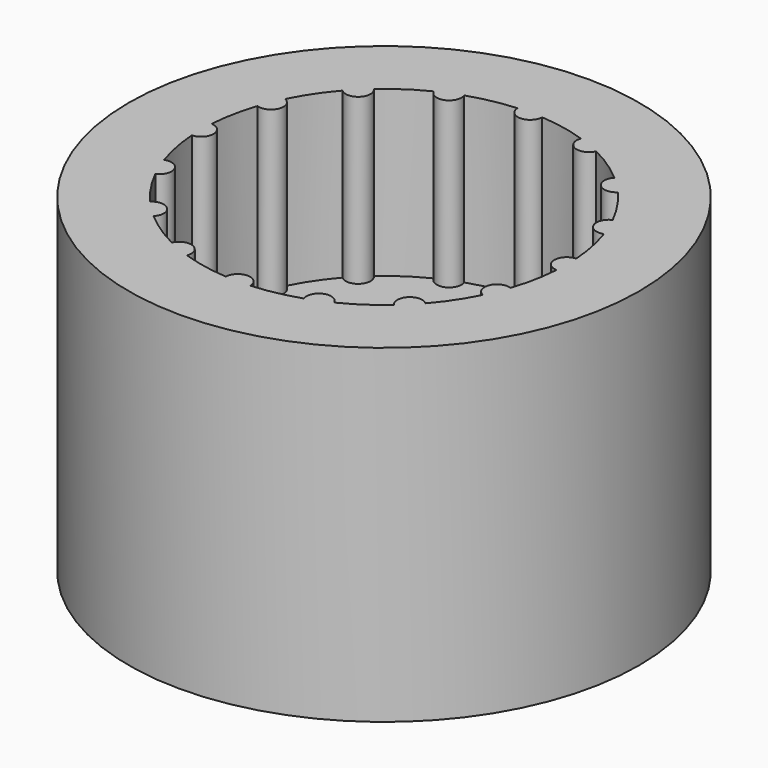
from build123d import *

# Parameters (mm, degrees)
SKETCH_R           = 31
PAD_DEPTH          = 40
SKETCH001_R        = 22.2
POCKET_DEPTH       = 20
SKETCH002_R        = 1.5
PAD001_DEPTH       = 25
POLARPATTERN_COUNT = 16
SKETCH003_W        = 9.8
SKETCH003_H        = 9.8
POCKET001_DEPTH    = 40.001


with BuildPart() as part:
    # Sketch → Pad (new body)
    with BuildSketch(Plane.XY):
        Circle(SKETCH_R)
    extrude(amount=PAD_DEPTH)

    # Sketch001 → Pocket (cut)
    with BuildSketch(Plane.XY.offset(40)):
        Circle(SKETCH001_R)
    extrude(amount=-POCKET_DEPTH, mode=Mode.SUBTRACT)

    # Sketch002 → Pad001 (new body)
    with BuildSketch(Plane.XY.offset(40)):
        with Locations((0, 22.2)):
            Circle(SKETCH002_R)
    pad001 = extrude(amount=-PAD001_DEPTH)

    # PolarPattern: Pad001 ×16 about axis
    polarpattern_axis = Axis((0, 0, 40), (0, 0, 1))
    for i in range(1, POLARPATTERN_COUNT):
        add(pad001.rotate(polarpattern_axis, i * 360 / POLARPATTERN_COUNT))

    # Sketch003 → Pocket001 (cut, through all)
    with BuildSketch(Plane(origin=(0, 0, 0), x_dir=(1, 0, 0), z_dir=(0, 0, -1))):
        Rectangle(SKETCH003_W, SKETCH003_H)
    extrude(amount=-POCKET001_DEPTH, mode=Mode.SUBTRACT)


solid = part.part
